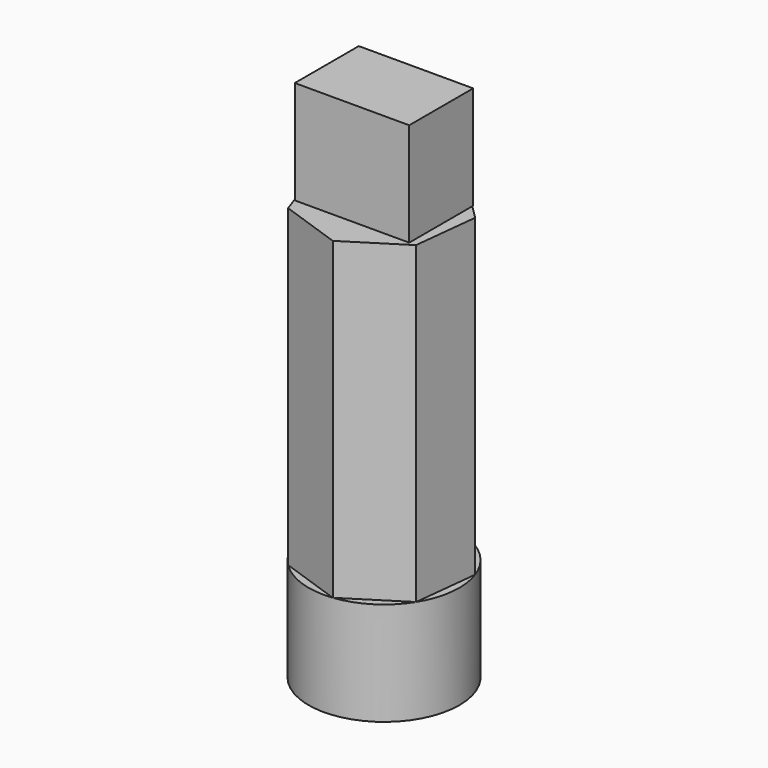
from build123d import *

# Parameters (mm, degrees)
F0_R     = 18.527319
F1_DEPTH = 25.4
F3_DEPTH = 77.216
F5_W     = 28.118574
F5_H     = 19.64978
F6_DEPTH = 25.4


with BuildPart() as f1:
    # F0 (on Top) → F1 (new body)
    with BuildSketch(Plane.XY):
        Circle(F0_R)
    extrude(amount=F1_DEPTH)

    # F2 (on face) → F3 (join)
    with BuildSketch(Plane.XY.offset(25.4)):
        Polygon((6.063722, 17.506937), (-9.906806, 15.656205), (-18.417307, 2.016032), (-13.0592, -13.142255), (2.132751, -18.404156), (15.718697, -9.807352), (17.468143, 6.174588), align=None)
    extrude(amount=F3_DEPTH)

    # F5 (on face) → F6 (join)
    with BuildSketch(Plane.XY.offset(102.616)):
        Rectangle(F5_W, F5_H)
    extrude(amount=F6_DEPTH)


solid = f1.part
